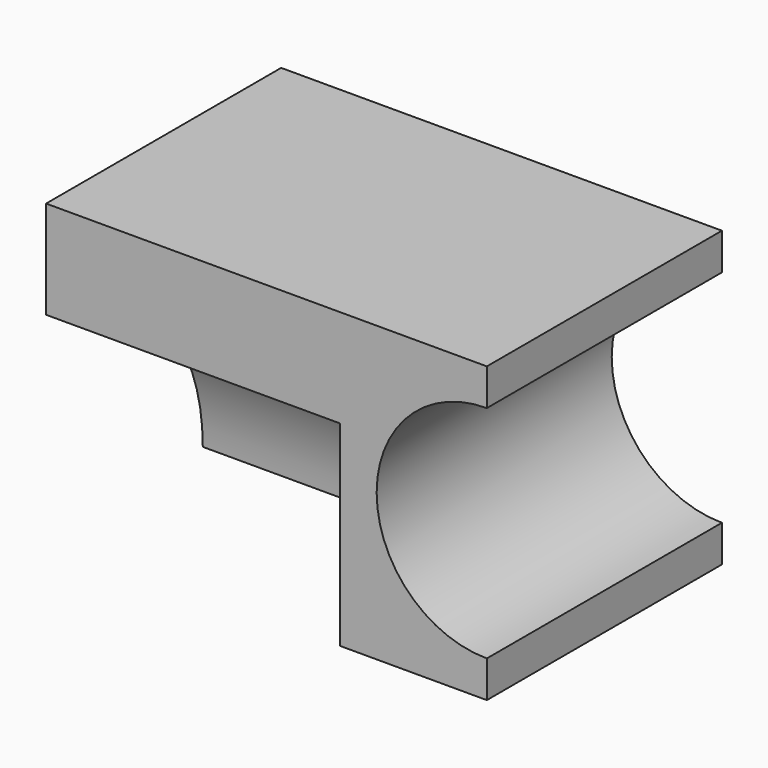
from build123d import *

# Parameters (mm, degrees)
F0_W     = 90
F0_H     = 60
F1_DEPTH = 60
F3_DEPTH = 60.001
F4_R     = 40
F5_DEPTH = 60


with BuildPart() as f1:
    # F0 (on Front) → F1 (new body)
    with BuildSketch(Plane.XZ):
        with Locations((45, 30)):
            Rectangle(F0_W, F0_H)
    extrude(amount=F1_DEPTH)

    # F2 (on face) → F3 (cut, through all)
    with BuildSketch(Plane.XZ.offset(60)):
        with BuildLine():
            Line((90, 7.5), (90, 52.5))
            ThreePointArc((90, 52.5), (67.5, 30), (90, 7.5))
        make_face()
    extrude(amount=-F3_DEPTH, mode=Mode.SUBTRACT)

    # F4 (on face) → F5 (cut)
    with BuildSketch(Plane(origin=(0, 0, 0), x_dir=(0, -1, 0), z_dir=(-1, 0, 0))):
        with Locations((60, 0)):
            Circle(F4_R)
    extrude(amount=-F5_DEPTH, mode=Mode.SUBTRACT)


solid = f1.part
